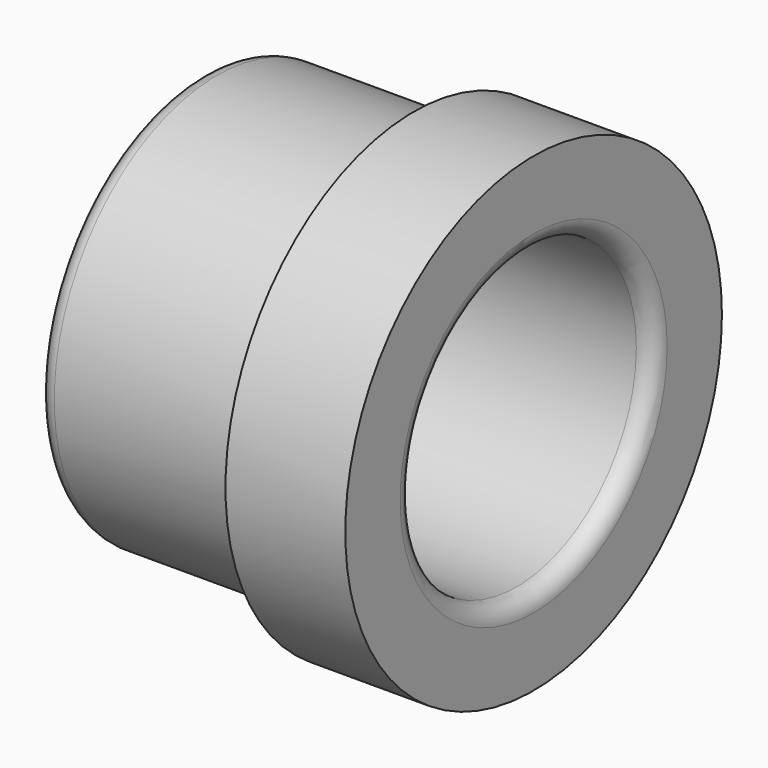
from build123d import *

# Parameters (mm, degrees)
F2_R = 2
F3_R = 2


with BuildPart() as f1:
    # F0 (on Top) → F1 (revolve)
    with BuildSketch(Plane.XY):
        Polygon((0, 17.5), (0, 27.5), (-14, 27.5), (-14, 23.75), (-39, 23.75), (-39, 17.5), align=None)
    revolve(axis=Axis((-10.876282, 0, 0), (1, 0, 0)))

    # F2
    f2_edges = [f1.edges().sort_by_distance(p)[0] for p in [
        (-14, -23.75, 0),
    ]]
    fillet(f2_edges, radius=F2_R)

    # F3
    f3_edges = [f1.edges().sort_by_distance(p)[0] for p in [
        (-39, -23.75, 0),
        (0, -17.5, 0),
    ]]
    fillet(f3_edges, radius=F3_R)


solid = f1.part
